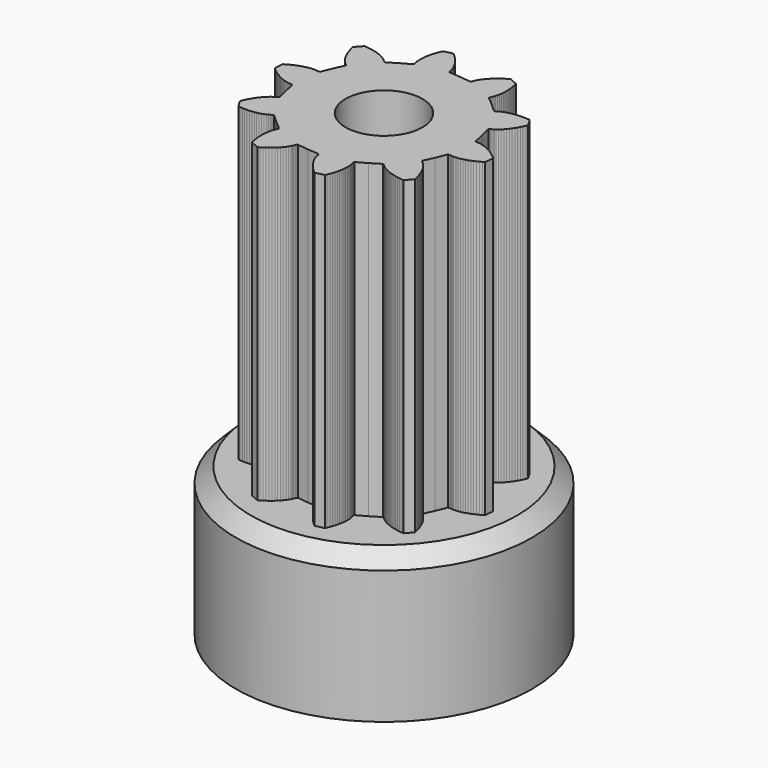
from build123d import *

# Parameters (mm, degrees)
F1_DEPTH      = 21
F3_R          = 10
F4_DEPTH      = 10
F2_R          = 2.6
F5_DEPTH      = 21.001
F5_DEPTH_BACK = 10.001
F6_W          = 6.5
F6_H          = 3.5
F7_DEPTH      = 5
F8_R          = 1.6
F9_DEPTH      = 25
F11_DEPTH     = 3.5
F12_SIZE      = 1


with BuildPart() as f1:
    # F0 (on Top) → F1 (new body)
    with BuildSketch(Plane.XY):
        Polygon((5.716768, -3.99571), (5.65221, -3.85931), (5.582913, -3.728637), (5.508809, -3.603762), (5.429896, -3.485392), (5.345892, -3.374094), (5.256443, -3.270927), (5.20935, -3.222986), (5.160347, -3.177943), (5.10887, -3.137072), (5.057888, -3.095282), (5.033846, -3.071948), (5.011219, -3.046351), (4.990571, -3.017501), (4.973389, -2.982641), (5.292293, -2.290102), (5.578742, -1.583633), (5.615936, -1.572319), (5.651079, -1.567582), (5.685303, -1.566592), (5.718678, -1.568147), (5.784085, -1.576703), (5.849139, -1.58632), (5.915466, -1.591128), (5.982711, -1.592613), (6.119183, -1.587239), (6.257775, -1.572249), (6.398065, -1.548773), (6.539769, -1.517377), (6.682604, -1.478345), (6.826147, -1.4321), (6.970255, -1.378785), (7.114787, -1.318539), (7.259461, -1.251647), (7.404064, -1.178037), (7.548384, -1.097781), (7.656288, -1.033434), (7.714413, -0.419526), (7.620438, -0.336016), (7.493654, -0.230163), (7.365456, -0.130814), (7.235914, -0.037901), (7.105171, 0.048295), (6.973578, 0.127703), (6.841208, 0.199969), (6.708273, 0.265023), (6.574983, 0.322511), (6.441552, 0.371937), (6.308192, 0.412525), (6.175186, 0.443426), (6.108859, 0.454598), (6.042816, 0.462235), (5.977055, 0.465063), (5.911223, 0.468811), (5.878202, 0.473548), (5.844755, 0.480973), (5.811027, 0.492216), (5.776732, 0.510247), (5.627674, 1.25794), (5.444181, 1.997926), (5.467586, 2.028968), (5.493324, 2.053434), (5.520336, 2.074364), (5.548337, 2.092749), (5.606249, 2.124215), (5.664515, 2.154762), (5.721012, 2.189763), (5.776237, 2.228018), (5.883505, 2.312658), (5.986813, 2.406208), (6.086515, 2.507749), (6.182682, 2.616501), (6.275242, 2.731972), (6.364196, 2.853735), (6.449472, 2.98158), (6.531072, 3.115223), (6.608713, 3.254381), (6.682464, 3.398984), (6.752114, 3.548678), (6.80154, 3.66429), (6.487656, 4.194973), (6.362569, 4.207347), (6.197814, 4.218378), (6.035604, 4.223469), (5.876222, 4.222479), (5.719811, 4.215408), (5.566652, 4.202256), (5.417099, 4.182952), (5.271294, 4.157496), (5.129731, 4.125676), (4.992765, 4.087139), (4.86089, 4.041672), (4.735237, 3.988427), (4.674992, 3.958446), (4.61708, 3.925848), (4.562208, 3.889503), (4.506771, 3.853865), (4.477144, 3.838238), (4.445819, 3.824591), (4.411948, 3.813914), (4.373553, 3.808327), (3.813455, 4.325575), (3.230093, 4.816447), (3.2308, 4.855197), (3.237164, 4.890128), (3.24678, 4.922937), (3.258589, 4.954262), (3.286944, 5.01373), (3.316148, 5.072773), (3.341321, 5.134291), (3.363453, 5.197718), (3.400505, 5.32924), (3.429143, 5.465641), (3.450144, 5.606425), (3.464003, 5.750816), (3.471004, 5.898672), (3.471357, 6.049497), (3.465276, 6.203081), (3.452619, 6.359139), (3.433669, 6.517389), (3.408354, 6.677619), (3.376676, 6.839688), (3.348816, 6.9623), (2.782849, 7.207241), (2.674379, 7.143601), (2.534655, 7.055779), (2.400446, 6.964562), (2.272107, 6.870022), (2.149707, 6.772371), (2.033529, 6.67175), (1.923857, 6.568159), (1.820903, 6.461952), (1.72509, 6.352846), (1.636843, 6.241264), (1.55694, 6.126996), (1.486513, 6.010041), (1.4554, 5.950361), (1.427752, 5.889904), (1.404771, 5.828315), (1.3808, 5.766867), (1.366022, 5.736815), (1.348698, 5.707329), (1.327626, 5.678762), (1.299837, 5.65168), (0.542668, 5.741058), (-0.217824, 5.795152), (-0.240027, 5.826971), (-0.255371, 5.859003), (-0.266897, 5.891177), (-0.275806, 5.923421), (-0.287756, 5.988262), (-0.298858, 6.053104), (-0.314697, 6.117733), (-0.334072, 6.18208), (-0.381306, 6.310207), (-0.43837, 6.437415), (-0.50413, 6.563563), (-0.577881, 6.68865), (-0.659057, 6.812393), (-0.747375, 6.934652), (-0.842622, 7.055213), (-0.944516, 7.174078), (-1.052915, 7.290962), (-1.167607, 7.405796), (-1.288522, 7.518226), (-1.383133, 7.600957), (-1.98488, 7.466466), (-2.035296, 7.351278), (-2.096744, 7.198048), (-2.151686, 7.045384), (-2.19991, 6.893498), (-2.241559, 6.742531), (-2.276419, 6.592837), (-2.304279, 6.444628), (-2.325068, 6.298116), (-2.338503, 6.153583), (-2.344231, 6.011384), (-2.341756, 5.872014), (-2.329947, 5.735896), (-2.320048, 5.669428), (-2.306896, 5.604233), (-2.289289, 5.540947), (-2.27253, 5.477096), (-2.266874, 5.444145), (-2.26355, 5.410133), (-2.263833, 5.374636), (-2.270409, 5.336382), (-2.935442, 4.963525), (-3.582514, 4.560405), (-3.619213, 4.573062), (-3.650467, 4.589891), (-3.67868, 4.609195), (-3.704843, 4.630125), (-3.752644, 4.675521), (-3.799666, 4.721412), (-3.850507, 4.764334), (-3.903964, 4.805063), (-4.017596, 4.880935), (-4.13844, 4.950302), (-4.265861, 5.0138), (-4.399009, 5.071571), (-4.537389, 5.123967), (-4.680719, 5.17099), (-4.828646, 5.212568), (-4.980956, 5.248771), (-5.137368, 5.279601), (-5.297598, 5.305057), (-5.461505, 5.324997), (-5.586733, 5.336382), (-5.994521, 4.873864), (-5.96758, 4.75104), (-5.927205, 4.590881), (-5.881879, 4.435105), (-5.831604, 4.283856), (-5.776591, 4.137343), (-5.716841, 3.99571), (-5.652212, 3.85938), (-5.582986, 3.728637), (-5.508881, 3.603762), (-5.429969, 3.485392), (-5.345964, 3.374094), (-5.256445, 3.270998), (-5.209422, 3.222986), (-5.16042, 3.177943), (-5.108943, 3.137072), (-5.05789, 3.095353), (-5.033848, 3.072019), (-5.011221, 3.046421), (-4.990573, 3.017572), (-4.973391, 2.982711), (-5.292295, 2.290172), (-5.578815, 1.583633), (-5.615938, 1.57239), (-5.651222, 1.567652), (-5.685305, 1.566662), (-5.718751, 1.568147), (-5.784087, 1.576774), (-5.849212, 1.58632), (-5.915467, 1.591199), (-5.982713, 1.592684), (-6.119184, 1.58731), (-6.257777, 1.572319), (-6.398138, 1.548773), (-6.539841, 1.517377), (-6.682606, 1.478416), (-6.826219, 1.4321), (-6.970327, 1.378784), (-7.114789, 1.31861), (-7.259533, 1.251647), (-7.404136, 1.178037), (-7.548386, 1.097852), (-7.656361, 1.033434), (-7.714414, 0.419596), (-7.62044, 0.336087), (-7.493656, 0.230233), (-7.365458, 0.130885), (-7.235916, 0.037972), (-7.105243, -0.048295), (-6.97358, -0.127633), (-6.841281, -0.199969), (-6.708345, -0.265023), (-6.575056, -0.322511), (-6.441554, -0.371867), (-6.308265, -0.412525), (-6.175188, -0.443355), (-6.108861, -0.454527), (-6.042818, -0.462164), (-5.977057, -0.464992), (-5.911296, -0.468811), (-5.878203, -0.473478), (-5.844757, -0.480902), (-5.811099, -0.492216), (-5.776734, -0.510176), (-5.627747, -1.25794), (-5.444253, -1.997926), (-5.467588, -2.028897), (-5.493326, -2.053363), (-5.520338, -2.074293), (-5.548339, -2.092678), (-5.606251, -2.124144), (-5.664516, -2.154691), (-5.721014, -2.189693), (-5.77631, -2.228018), (-5.883507, -2.312588), (-5.986886, -2.406208), (-6.086517, -2.507678), (-6.182683, -2.616431), (-6.275244, -2.731901), (-6.364268, -2.853735), (-6.449545, -2.98158), (-6.531074, -3.115152), (-6.608785, -3.254381), (-6.682466, -3.398913), (-6.752116, -3.548608), (-6.801542, -3.664219), (-6.487729, -4.194973), (-6.362571, -4.207276), (-6.197886, -4.218378), (-6.035677, -4.223469), (-5.876295, -4.222479), (-5.719883, -4.215408), (-5.566724, -4.202256), (-5.417171, -4.182952), (-5.271366, -4.157496), (-5.129733, -4.125606), (-4.992767, -4.087068), (-4.860962, -4.041672), (-4.735239, -3.988356), (-4.675064, -3.958446), (-4.617082, -3.925778), (-4.56221, -3.889432), (-4.506773, -3.853794), (-4.477145, -3.838167), (-4.445891, -3.824591), (-4.41195, -3.813843), (-4.373555, -3.808257), (-3.813527, -4.325575), (-3.230095, -4.816377), (-3.230802, -4.855126), (-3.237236, -4.890128), (-3.246853, -4.922937), (-3.258662, -4.954262), (-3.287017, -5.01373), (-3.316149, -5.072702), (-3.341322, -5.13422), (-3.363525, -5.197718), (-3.400507, -5.329169), (-3.429145, -5.46557), (-3.450146, -5.606355), (-3.464076, -5.750816), (-3.471076, -5.898672), (-3.47143, -6.049497), (-3.465278, -6.20301), (-3.452692, -6.359139), (-3.433741, -6.517389), (-3.408427, -6.677619), (-3.376749, -6.839688), (-3.348818, -6.962229), (-2.782851, -7.20717), (-2.674452, -7.143601), (-2.534657, -7.055708), (-2.400448, -6.964492), (-2.272109, -6.869952), (-2.149779, -6.772371), (-2.033602, -6.67175), (-1.92393, -6.568159), (-1.820905, -6.461881), (-1.725163, -6.352846), (-1.636845, -6.241194), (-1.556942, -6.126925), (-1.486514, -6.00997), (-1.455472, -5.950361), (-1.427754, -5.889833), (-1.404773, -5.828244), (-1.380873, -5.766867), (-1.366165, -5.736745), (-1.34877, -5.707329), (-1.327698, -5.678762), (-1.299909, -5.65168), (-0.54267, -5.740987), (0.217751, -5.795152), (0.240025, -5.826901), (0.255369, -5.858933), (0.266895, -5.891106), (0.275734, -5.923421), (0.287754, -5.988191), (0.298785, -6.053104), (0.314695, -6.117662), (0.333999, -6.18208), (0.381304, -6.310136), (0.438368, -6.437345), (0.504058, -6.563563), (0.577809, -6.68865), (0.659055, -6.812323), (0.747373, -6.934581), (0.842549, -7.055213), (0.944514, -7.174007), (1.052913, -7.290891), (1.167605, -7.405725), (1.28845, -7.518226), (1.38306, -7.600957), (1.984878, -7.466395), (2.035224, -7.351278), (2.096671, -7.198048), (2.151613, -7.045384), (2.199909, -6.893428), (2.241486, -6.742531), (2.276347, -6.592837), (2.304277, -6.444557), (2.325066, -6.298045), (2.338501, -6.153513), (2.344229, -6.011314), (2.341683, -5.872014), (2.329875, -5.735896), (2.319975, -5.669428), (2.306823, -5.604233), (2.289287, -5.540877), (2.272458, -5.477096), (2.266801, -5.444145), (2.263548, -5.410062), (2.263831, -5.374566), (2.270337, -5.336382), (2.935369, -4.963525), (3.582512, -4.560334), (3.619211, -4.572991), (3.650394, -4.589891), (3.678679, -4.609124), (3.704841, -4.630054), (3.752642, -4.675451), (3.799664, -4.721342), (3.850434, -4.764334), (3.903962, -4.804992), (4.017523, -4.880935), (4.138438, -4.950232), (4.265859, -5.01373), (4.398936, -5.071571), (4.537387, -5.123897), (4.680717, -5.170919), (4.828644, -5.212497), (4.980954, -5.248701), (5.137295, -5.279601), (5.297525, -5.305057), (5.461432, -5.324997), (5.586661, -5.336382), (5.994449, -4.873723), (5.967508, -4.75104), (5.927132, -4.590881), (5.881807, -4.435105), (5.831602, -4.283785), (5.77659, -4.137273), align=None)
    extrude(amount=F1_DEPTH)

    # F3 (on Top) → F4 (join)
    with BuildSketch(Plane.XY):
        Circle(F3_R)
    extrude(amount=-F4_DEPTH)

    # F2 (on Top) → F5 (cut, two sides)
    with BuildSketch(Plane.XY) as f5_sk:
        Circle(F2_R)
    extrude(amount=F5_DEPTH, mode=Mode.SUBTRACT)
    extrude(f5_sk.sketch, amount=-F5_DEPTH_BACK, mode=Mode.SUBTRACT)

    # F6 (on face) → F7 (cut)
    with BuildSketch(Plane(origin=(0, 0, -10), x_dir=(1, 0, 0), z_dir=(0, 0, -1))):
        with Locations((0, -5.6428335357)):
            Rectangle(F6_W, F6_H)
    extrude(amount=-F7_DEPTH, mode=Mode.SUBTRACT)

    # F8 (on Front) → F9 (cut)
    with BuildSketch(Plane.XZ):
        with Locations((0, -5)):
            Circle(F8_R)
    extrude(amount=-F9_DEPTH, mode=Mode.SUBTRACT)

    # F10 (on face) → F11 (cut, through all)
    with BuildSketch(Plane(origin=(0, 3.8928335357, 0), x_dir=(-1, 0, 0), z_dir=(0, 1, 0))):
        Polygon((3.25, -6.8763883749), (3.25, -3.1236116251), (0, -1.2472232503), (-3.25, -3.1236116251), (-3.25, -6.8763883749), (0, -8.7527767497), align=None)
    extrude(amount=F11_DEPTH, mode=Mode.SUBTRACT)

    # F12
    f12_edges = [f1.edges().sort_by_distance(p)[0] for p in [
        (-10, 0, 0),
    ]]
    chamfer(f12_edges, length=F12_SIZE)


solid = f1.part
